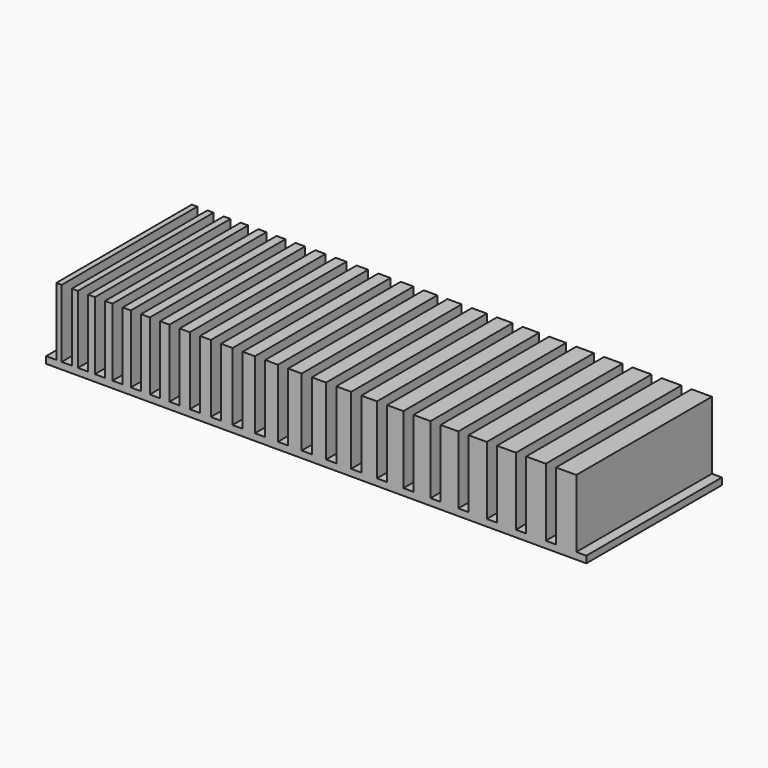
from build123d import *

# Parameters (mm, degrees)
F0_W     = 100
F0_H     = 25
F1_DEPTH = 1
F2_W     = 0.8
F2_H     = 25
F2_W_2   = 0.9
F2_W_3   = 1
F2_W_4   = 1.1
F2_W_5   = 1.2
F2_W_6   = 1.3
F2_W_7   = 1.4
F2_W_8   = 1.5
F2_W_9   = 1.6
F2_W_10  = 1.7
F2_W_11  = 1.8
F2_W_12  = 1.9
F2_W_13  = 2
F2_W_14  = 2.1
F2_W_15  = 2.2
F2_W_16  = 2.3
F2_W_17  = 2.4
F2_W_18  = 2.5
F2_W_19  = 2.6
F2_W_20  = 2.7
F2_W_21  = 2.8
F2_W_22  = 2.9
F2_W_23  = 3
F3_DEPTH = 10
F4_W     = 23.160562
F4_H     = 27.70046
F5_DEPTH = 25


with BuildPart() as f1:
    # F0 (on Top) → F1 (new body)
    with BuildSketch(Plane.XY):
        with Locations((1.74681, -0.140128)):
            Rectangle(F0_W, F0_H)
    extrude(amount=F1_DEPTH)

    # F2 (on face) → F3 (join)
    with BuildSketch(Plane.XY.offset(1)):
        with Locations((-46.35319, -0.140128)):
            Rectangle(F2_W, F2_H)
        with Locations((-44.00319, -0.140128)):
            Rectangle(F2_W_2, F2_H)
        with Locations((-41.55319, -0.140128)):
            Rectangle(F2_W_3, F2_H)
        with Locations((-39.00319, -0.140128)):
            Rectangle(F2_W_4, F2_H)
        with Locations((-36.35319, -0.140128)):
            Rectangle(F2_W_5, F2_H)
        with Locations((-33.60319, -0.140128)):
            Rectangle(F2_W_6, F2_H)
        with Locations((-30.75319, -0.140128)):
            Rectangle(F2_W_7, F2_H)
        with Locations((-27.80319, -0.140128)):
            Rectangle(F2_W_8, F2_H)
        with Locations((-24.75319, -0.140128)):
            Rectangle(F2_W_9, F2_H)
        with Locations((-21.60319, -0.140128)):
            Rectangle(F2_W_10, F2_H)
        with Locations((-18.35319, -0.140128)):
            Rectangle(F2_W_11, F2_H)
        with Locations((-15.00319, -0.140128)):
            Rectangle(F2_W_12, F2_H)
        with Locations((-11.55319, -0.140128)):
            Rectangle(F2_W_13, F2_H)
        with Locations((-8.00319, -0.140128)):
            Rectangle(F2_W_14, F2_H)
        with Locations((-4.35319, -0.140128)):
            Rectangle(F2_W_15, F2_H)
        with Locations((-0.60319, -0.140128)):
            Rectangle(F2_W_16, F2_H)
        with Locations((3.24681, -0.140128)):
            Rectangle(F2_W_17, F2_H)
        with Locations((7.19681, -0.140128)):
            Rectangle(F2_W_18, F2_H)
        with Locations((11.24681, -0.140128)):
            Rectangle(F2_W_19, F2_H)
        with Locations((15.39681, -0.140128)):
            Rectangle(F2_W_20, F2_H)
        with Locations((19.64681, -0.140128)):
            Rectangle(F2_W_21, F2_H)
        with Locations((23.99681, -0.140128)):
            Rectangle(F2_W_22, F2_H)
        with Locations((28.44681, -0.140128)):
            Rectangle(F2_W_23, F2_H)
    extrude(amount=F3_DEPTH)

    # F4 (on face) → F5 (cut)
    with BuildSketch(Plane.XY.offset(1)):
        with Locations((43.004874, -0.135502)):
            Rectangle(F4_W, F4_H)
    extrude(amount=-F5_DEPTH, mode=Mode.SUBTRACT)


solid = f1.part
